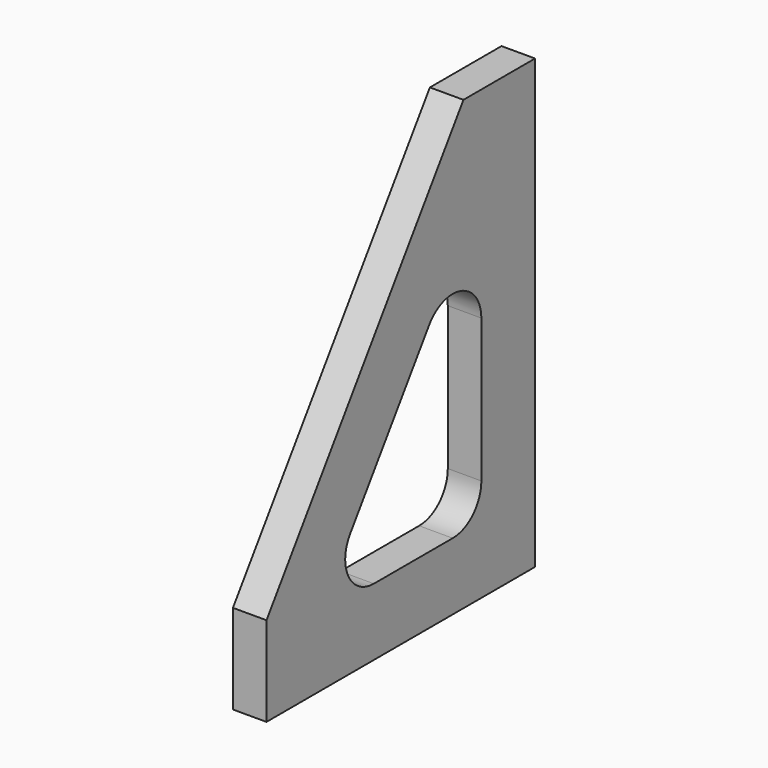
from build123d import *

# Parameters (mm, degrees)
F1_DEPTH  = 9.525
F3_DEPTH  = 9.526
F4_R      = 10.16
F5_R      = 10.16
F6_R      = 10.16
F7_R      = 3.175
F9_DEPTH  = 12.7
F8_R      = 3.175
F10_DEPTH = 12.7


with BuildPart() as f1:
    # F0 (on Right) → F1 (new body)
    with BuildSketch(Plane.YZ):
        Polygon((12.043838, -80.868449), (12.043838, 46.131551), (-13.356162, 46.131551), (-83.206162, -55.468449), (-83.206162, -80.868449), align=None)
    extrude(amount=F1_DEPTH)

    # F2 (on face) → F3 (cut, through all)
    with BuildSketch(Plane(origin=(0, 0, 0), x_dir=(0, -1, 0), z_dir=(-1, 0, 0))):
        Polygon((7.006162, 21.742088), (7.006162, -61.818449), (64.454031, -61.818449), align=None)
    extrude(amount=-F3_DEPTH, mode=Mode.SUBTRACT)

    # F4
    f4_edges = [f1.edges().sort_by_distance(p)[0] for p in [
        (4.7625, -7.006162, -61.818449),
    ]]
    fillet(f4_edges, radius=F4_R)

    # F5
    f5_edges = [f1.edges().sort_by_distance(p)[0] for p in [
        (4.7625, -7.006162, 21.742088),
    ]]
    fillet(f5_edges, radius=F5_R)

    # F6
    f6_edges = [f1.edges().sort_by_distance(p)[0] for p in [
        (4.7625, -64.454031, -61.818449),
    ]]
    fillet(f6_edges, radius=F6_R)

    # F7 (on face) → F9 (cut)
    with BuildSketch(Plane(origin=(0, 12.043838, 0), x_dir=(-1, 0, 0), z_dir=(0, 1, 0))):
        with Locations((-5.243894, -17.368449)):
            Circle(F7_R)
        with Locations((-5.243894, -61.818449)):
            Circle(F7_R)
        with Locations((-4.7498, 27.081551)):
            Circle(F7_R)
    extrude(amount=-F9_DEPTH, mode=Mode.SUBTRACT)

    # F8 (on face) → F10 (cut)
    with BuildSketch(Plane(origin=(0, 0, -80.868449), x_dir=(1, 0, 0), z_dir=(0, 0, -1))):
        with Locations((4.7752, 7.006162)):
            Circle(F8_R)
        with Locations((4.7752, 35.581162)):
            Circle(F8_R)
        with Locations((4.7752, 64.156162)):
            Circle(F8_R)
    extrude(amount=-F10_DEPTH, mode=Mode.SUBTRACT)


solid = f1.part
